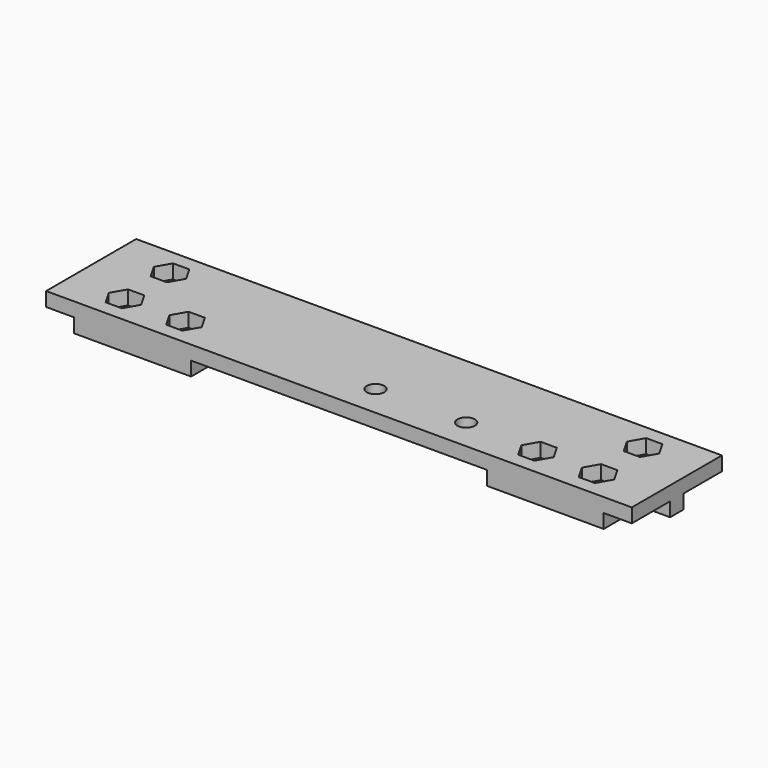
from build123d import *

# Parameters (mm, degrees)
SKETCH005_W  = 208
SKETCH005_H  = 40
SKETCH005_R  = 3.1
PAD005_DEPTH = 5
SKETCH006_W  = 208
SKETCH006_H  = 6
PAD006_DEPTH = 5
SKETCH007_W  = 41.5
SKETCH007_H  = 40
SKETCH007_R  = 3.2
PAD007_DEPTH = 5


with BuildPart() as part:
    # Sketch005 → Pad005 (new body)
    with BuildSketch(Plane.XY):
        with Locations((4, 0)):
            Rectangle(SKETCH005_W, SKETCH005_H)
        with Locations((8.1, -8.9)):
            Circle(SKETCH005_R, mode=Mode.SUBTRACT)
        with Locations((40.3, -8.9)):
            Circle(SKETCH005_R, mode=Mode.SUBTRACT)
        Polygon((93.75, 10), (90.875, 14.979646), (85.125, 14.979646), (82.25, 10), (85.125, 5.020354), (90.875, 5.020354), align=None, mode=Mode.SUBTRACT)
        Polygon((93.75, -10), (90.875, -5.020354), (85.125, -5.020354), (82.25, -10), (85.125, -14.979646), (90.875, -14.979646), align=None, mode=Mode.SUBTRACT)
        Polygon((-74.25, 10), (-77.125, 14.979646), (-82.875, 14.979646), (-85.75, 10), (-82.875, 5.020354), (-77.125, 5.020354), align=None, mode=Mode.SUBTRACT)
        Polygon((-74.25, -10), (-77.125, -5.020354), (-82.875, -5.020354), (-85.75, -10), (-82.875, -14.979646), (-77.125, -14.979646), align=None, mode=Mode.SUBTRACT)
        Polygon((-52.75, -10), (-55.625, -5.020354), (-61.375, -5.020354), (-64.25, -10), (-61.375, -14.979646), (-55.625, -14.979646), align=None, mode=Mode.SUBTRACT)
        Polygon((72.25, -10), (69.375, -5.020354), (63.625, -5.020354), (60.75, -10), (63.625, -14.979646), (69.375, -14.979646), align=None, mode=Mode.SUBTRACT)
    extrude(amount=PAD005_DEPTH)

    # Sketch006 (on Face43 of Pad005) → Pad006 (join)
    with BuildSketch(Plane(origin=(0, 0, 0), x_dir=(1, 0, 0), z_dir=(0, 0, -1))):
        with Locations((4, 0)):
            Rectangle(SKETCH006_W, SKETCH006_H)
    extrude(amount=PAD006_DEPTH)

    # Sketch007 (on Face6 of Pad006) → Pad007 (join)
    with BuildSketch(Plane(origin=(0, 0, 0), x_dir=(1, 0, 0), z_dir=(0, 0, -1))):
        with Locations((77.25, 0)):
            Rectangle(SKETCH007_W, SKETCH007_H)
        with Locations((88, 10)):
            Circle(SKETCH007_R, mode=Mode.SUBTRACT)
        with Locations((88, -10)):
            Circle(SKETCH007_R, mode=Mode.SUBTRACT)
        with Locations((66.5, 10)):
            Circle(SKETCH007_R, mode=Mode.SUBTRACT)
        with Locations((-69.25, 0)):
            Rectangle(SKETCH007_W, SKETCH007_H)
        with Locations((-58.5, 10)):
            Circle(SKETCH007_R, mode=Mode.SUBTRACT)
        with Locations((-80, -10)):
            Circle(SKETCH007_R, mode=Mode.SUBTRACT)
        with Locations((-80, 10)):
            Circle(SKETCH007_R, mode=Mode.SUBTRACT)
    extrude(amount=PAD007_DEPTH)


with BuildPart() as part_1:
    # Body007 placement: moved
    add(part.part.moved(Location((268, 278, 0))))


solid = part_1.part
